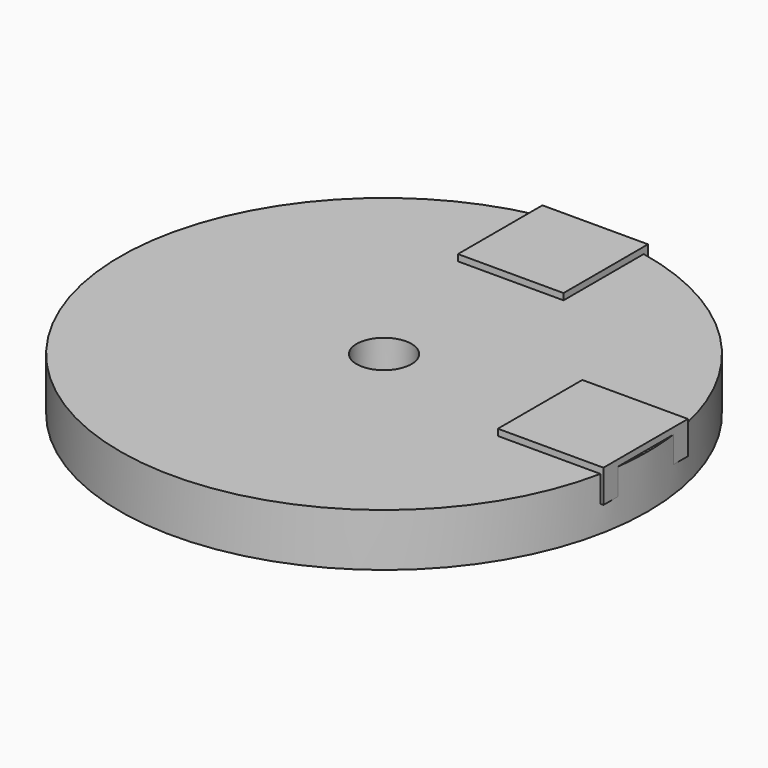
from build123d import *

# Parameters (mm, degrees)
F0_R     = 7.9375
F0_R_2   = 0.8255
F1_DEPTH = 0.79375
F2_W     = 3.175
F2_H     = 3.175
F3_DEPTH = 0.9871898219
F4_W     = 3.175
F4_H     = 3.175
F5_DEPTH = 0.987298


with BuildPart() as f1:
    # F0 (on Top) → F1 (new body, symmetric)
    with BuildSketch(Plane.XY):
        Circle(F0_R)
        Circle(F0_R_2, mode=Mode.SUBTRACT)
    extrude(amount=F1_DEPTH, both=True)

    # F2 (on Top) → F3 (join)
    with BuildSketch(Plane.XY):
        with Locations((0, 6.35)):
            Rectangle(F2_W, F2_H)
    extrude(amount=F3_DEPTH)

    # F4 (on Top) → F5 (join)
    with BuildSketch(Plane.XY):
        with Locations((6.2804043693, 0)):
            Rectangle(F4_W, F4_H)
    extrude(amount=F5_DEPTH)


solid = f1.part
